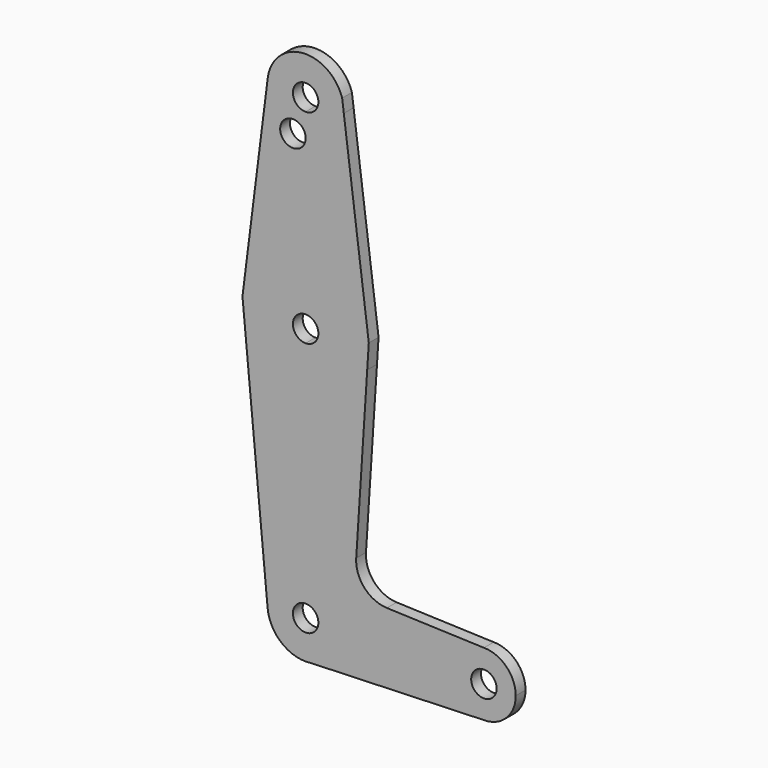
from build123d import *

# Parameters (mm, degrees)
F1_DEPTH = 3.048
F2_DEPTH = 3.048


with BuildPart() as f1:
    # F0 (on Front) → F1 (new body)
    with BuildSketch(Plane.XZ):
        with BuildLine():
            Line((-40.32718307, 68.467606421), (-40.7425331806, 71.692215822))
            ThreePointArc((-40.7425331806, 71.692215822), (-50.6721787833, 78.3697949292), (-59.2935037436, 70.0715613546))
            ThreePointArc((-59.2935037436, 70.0715613546), (-58.6696498675, 65.3004897311), (-55.7933725397, 61.4431140909))
            ThreePointArc((-55.7933725397, 61.4431140909), (-52.2215030503, 62.9740955642), (-49.8432107794, 59.9006802335))
            Line((-49.8432107794, 59.9006802335), (-49.8432107794, 59.3559363546))
            ThreePointArc((-49.8432107794, 59.3559363546), (-43.2557735925, 62.0011619173), (-40.32718307, 68.467606421))
        make_face()
        with BuildLine():
            ThreePointArc((-46.6682107794, 68.8809363546), (-47.5981467491, 66.6358723244), (-49.8432107794, 65.7059363546))
            ThreePointArc((-49.8432107794, 65.7059363546), (-52.0882748097, 71.1260003849), (-46.6682107794, 68.8809363546))
        make_face(mode=Mode.SUBTRACT)
        with BuildLine():
            ThreePointArc((-55.7933725397, 61.4431140909), (-58.6696498675, 65.3004897311), (-59.2935037436, 70.0715613546))
            Line((-59.2935037436, 70.0715613546), (-65.5936990531, 20.0653113546))
            ThreePointArc((-65.5936990531, 20.0653113546), (-60.3435362952, 29.9871863546), (-49.8432107794, 33.9559363546))
            Line((-49.8432107794, 33.9559363546), (-49.8432107794, 59.3559363546))
            ThreePointArc((-49.8432107794, 59.3559363546), (-49.8667410822, 59.355965419), (-49.8902712413, 59.3560526119))
            ThreePointArc((-49.8902712413, 59.3560526119), (-54.0765441127, 56.9072615265), (-55.7933725397, 61.4431140909))
        make_face()
        with BuildLine():
            Line((-34.098286061, 20.1089823629), (-40.32718307, 68.467606421))
            ThreePointArc((-40.32718307, 68.467606421), (-43.2557735925, 62.0011619173), (-49.8432107794, 59.3559363546))
            Line((-49.8432107794, 59.3559363546), (-49.8432107794, 33.9559363546))
            ThreePointArc((-49.8432107794, 33.9559363546), (-39.3594043471, 30.0017344693), (-34.098286061, 20.1089823629))
        make_face()
        with BuildLine():
            ThreePointArc((-49.8432107794, 33.9559363546), (-60.3435362952, 29.9871863546), (-65.5936990531, 20.0653113546))
            Line((-65.5936990531, 20.0653113546), (-64.9439138983, 13.1835502851))
            ThreePointArc((-64.9439138983, 13.1835502851), (-59.1778136404, 5.2403439062), (-49.8432107794, 2.2059363546))
            Line((-49.8432107794, 2.2059363546), (-49.8432107794, 14.9059363546))
            ThreePointArc((-49.8432107794, 14.9059363546), (-53.0182107794, 18.0809363546), (-49.8432107794, 21.2559363546))
            Line((-49.8432107794, 21.2559363546), (-49.8432107794, 33.9559363546))
        make_face()
        with BuildLine():
            Line((-34.4933035046, 14.0317424033), (-34.098286061, 20.1089823629))
            ThreePointArc((-34.098286061, 20.1089823629), (-39.3594043471, 30.0017344693), (-49.8432107794, 33.9559363546))
            Line((-49.8432107794, 33.9559363546), (-49.8432107794, 21.2559363546))
            ThreePointArc((-49.8432107794, 21.2559363546), (-47.5981467491, 20.3260003849), (-46.6682107794, 18.0809363546))
            ThreePointArc((-46.6682107794, 18.0809363546), (-47.5981467491, 15.8358723244), (-49.8432107794, 14.9059363546))
            Line((-49.8432107794, 14.9059363546), (-49.8432107794, 2.2059363546))
            ThreePointArc((-49.8432107794, 2.2059363546), (-40.1546951288, 5.5052340089), (-34.4933035046, 14.0317424033))
        make_face()
        with BuildLine():
            ThreePointArc((-49.8432107794, 2.2059363546), (-59.1778136404, 5.2403439062), (-64.9439138983, 13.1835502851))
            Line((-64.9439138983, 13.1835502851), (-59.3260330449, -46.3144445037))
            ThreePointArc((-59.3260330449, -46.3144445037), (-56.8878586654, -39.008247694), (-49.8432107794, -35.8940636454))
            Line((-49.8432107794, -35.8940636454), (-49.8432107794, 2.2059363546))
        make_face()
        with BuildLine():
            Line((-37.235316734, -28.1534133074), (-34.4933035046, 14.0317424033))
            ThreePointArc((-34.4933035046, 14.0317424033), (-40.1546951288, 5.5052340089), (-49.8432107794, 2.2059363546))
            Line((-49.8432107794, 2.2059363546), (-49.8432107794, -35.8940636454))
            ThreePointArc((-49.8432107794, -35.8940636454), (-43.1080186886, -38.6838715546), (-40.3182107794, -45.4190636454))
            Line((-40.3182107794, -45.4190636454), (-13.3307107794, -45.4190636454))
            ThreePointArc((-13.3307107794, -45.4190636454), (-11.0058708551, -39.8064035697), (-5.3932107794, -37.4815636454))
            Line((-5.3932107794, -37.4815636454), (-29.5867054699, -36.6141794669))
            ThreePointArc((-29.5867054699, -36.6141794669), (-35.1994236886, -34.0005379915), (-37.235316734, -28.1534133074))
        make_face()
        with BuildLine():
            ThreePointArc((-49.8432107794, -35.8940636454), (-56.8878586654, -39.008247694), (-59.3260330449, -46.3144445037))
            ThreePointArc((-59.3260330449, -46.3144445037), (-55.7806324089, -52.8670599795), (-48.6026715489, -54.8629340076))
            ThreePointArc((-48.6026715489, -54.8629340076), (-42.6828420329, -51.7003648175), (-40.3182107794, -45.4190636454))
            Line((-40.3182107794, -45.4190636454), (-46.6682107794, -45.4190636454))
            ThreePointArc((-46.6682107794, -45.4190636454), (-52.0882748097, -47.6641276756), (-49.8432107794, -42.2440636454))
            Line((-49.8432107794, -42.2440636454), (-49.8432107794, -35.8940636454))
        make_face()
        with BuildLine():
            ThreePointArc((-40.3182107794, -45.4190636454), (-42.6828420329, -51.7003648175), (-48.6026715489, -54.8629340076))
            Line((-48.6026715489, -54.8629340076), (-5.3932107794, -53.3565636454))
            ThreePointArc((-5.3932107794, -53.3565636454), (-11.0058708551, -51.0317237211), (-13.3307107794, -45.4190636454))
            Line((-13.3307107794, -45.4190636454), (-40.3182107794, -45.4190636454))
        make_face()
        with BuildLine():
            ThreePointArc((-13.3307107794, -45.4190636454), (-11.0058708551, -51.0317237211), (-5.3932107794, -53.3565636454))
            ThreePointArc((-5.3932107794, -53.3565636454), (0.2194492963, -51.0317237211), (2.5442892206, -45.4190636454))
            ThreePointArc((2.5442892206, -45.4190636454), (0.2194492963, -39.8064035697), (-5.3932107794, -37.4815636454))
            ThreePointArc((-5.3932107794, -37.4815636454), (-11.0058708551, -39.8064035697), (-13.3307107794, -45.4190636454))
        make_face()
        with BuildLine():
            ThreePointArc((-2.2182107794, -45.4190636454), (-5.3932107794, -48.5940636454), (-8.5682107794, -45.4190636454))
            ThreePointArc((-8.5682107794, -45.4190636454), (-5.3932107794, -42.2440636454), (-2.2182107794, -45.4190636454))
        make_face(mode=Mode.SUBTRACT)
    extrude(amount=F1_DEPTH)

    # F0 (on Front) → F2 (join)
    with BuildSketch(Plane.XZ):
        with BuildLine():
            ThreePointArc((-40.3182107794, -45.4190636454), (-43.1080186886, -38.6838715546), (-49.8432107794, -35.8940636454))
            Line((-49.8432107794, -35.8940636454), (-49.8432107794, -42.2440636454))
            ThreePointArc((-49.8432107794, -42.2440636454), (-47.5981467491, -43.1739996151), (-46.6682107794, -45.4190636454))
            Line((-46.6682107794, -45.4190636454), (-40.3182107794, -45.4190636454))
        make_face()
    extrude(amount=F2_DEPTH)


solid = f1.part
